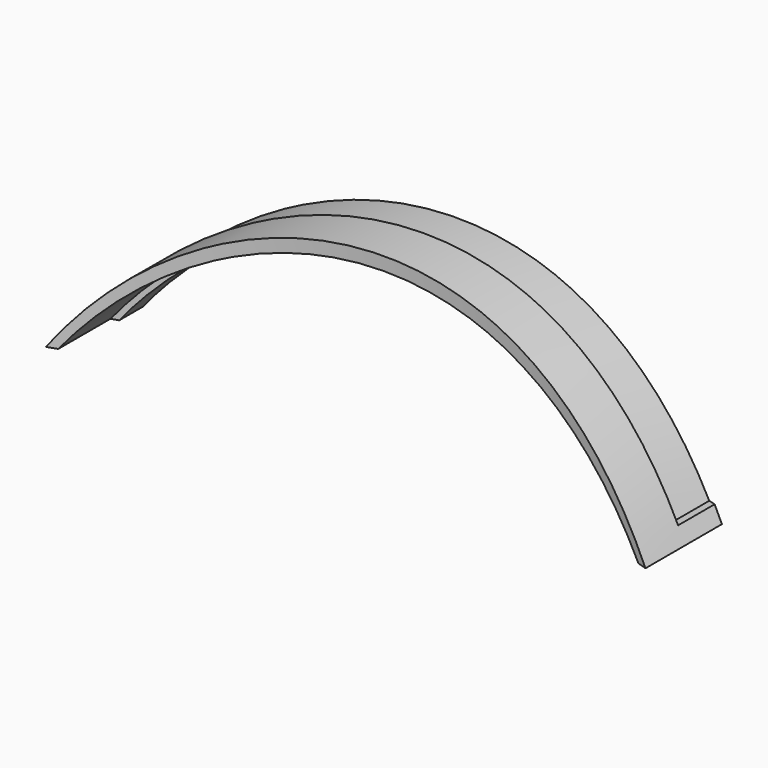
from build123d import *

# Parameters (mm, degrees)
PAD002_DEPTH    = 47.5
POCKET004_DEPTH = 67
POCKET005_DEPTH = 50
PAD001_DEPTH    = 47.5
POCKET002_DEPTH = 67
POCKET003_DEPTH = 50
PAD_DEPTH       = 47.5
POCKET_DEPTH    = 67
POCKET001_DEPTH = 50


with BuildPart() as body002:
    # Sketch006 → Pad002 (new body)
    with BuildSketch(Plane.XY):
        with BuildLine():
            ThreePointArc((90.501517, 0), (-0.00051, 14.750711), (-90.502537, 0))
            Line((-90.502537, 0), (-99.243083, 26.073989))
            ThreePointArc((99.233841, 26.076743), (-0.004846, 42.250711), (-99.243083, 26.073989))
            Line((90.501517, 0), (99.233841, 26.076743))
        make_face()
    extrude(amount=PAD002_DEPTH)

    # Sketch007 → Pocket004 (cut)
    with BuildSketch(Plane.XZ):
        with BuildLine():
            Line((0, 0), (-85.5, 0))
            ThreePointArc((85.5, 0), (0, 42.501931), (-85.5, 0))
            Line((0, 0), (85.5, 0))
        make_face()
    extrude(amount=-POCKET004_DEPTH, mode=Mode.SUBTRACT)

    # Sketch008 → Pocket005 (cut)
    with BuildSketch(Plane.XZ):
        with BuildLine():
            ThreePointArc((90.5, 0), (0, 47.5), (-90.5, 0))
            Line((-90.5, 0), (-105.5, 0))
            Line((-105.5, 0), (-105.5, 50))
            Line((-105.5, 50), (104.5, 50))
            Line((104.5, 50), (104.5, 0))
            Line((90.5, 0), (104.5, 0))
        make_face()
    extrude(amount=-POCKET005_DEPTH, mode=Mode.SUBTRACT)


with BuildPart() as body002_1:
    # Body002 placement: moved
    add(body002.part.moved(Location((0, 15, 4))))


with BuildPart() as body001:
    # Sketch003 → Pad001 (new body)
    with BuildSketch(Plane.XY):
        with BuildLine():
            ThreePointArc((90.501517, 0), (-0.00051, 14.750711), (-90.502537, 0))
            Line((-90.502537, 0), (-99.243083, 26.073989))
            ThreePointArc((99.233841, 26.076743), (-0.004846, 42.250711), (-99.243083, 26.073989))
            Line((90.501517, 0), (99.233841, 26.076743))
        make_face()
    extrude(amount=PAD001_DEPTH)

    # Sketch004 → Pocket002 (cut)
    with BuildSketch(Plane.XZ):
        with BuildLine():
            Line((0, 0), (-85.5, 0))
            ThreePointArc((85.5, 0), (0, 42.501931), (-85.5, 0))
            Line((0, 0), (85.5, 0))
        make_face()
    extrude(amount=-POCKET002_DEPTH, mode=Mode.SUBTRACT)

    # Sketch005 → Pocket003 (cut)
    with BuildSketch(Plane.XZ):
        with BuildLine():
            ThreePointArc((90.5, 0), (0, 47.5), (-90.5, 0))
            Line((-90.5, 0), (-105.5, 0))
            Line((-105.5, 0), (-105.5, 50))
            Line((-105.5, 50), (104.5, 50))
            Line((104.5, 50), (104.5, 0))
            Line((90.5, 0), (104.5, 0))
        make_face()
    extrude(amount=-POCKET003_DEPTH, mode=Mode.SUBTRACT)


with BuildPart() as body001_1:
    # Body001 placement: moved
    add(body001.part.moved(Location((0, -9, -4))))


with BuildPart() as cut001:
    # Sketch → Pad (new body)
    with BuildSketch(Plane.XY):
        with BuildLine():
            ThreePointArc((90.501517, 0), (-0.00051, 14.750711), (-90.502537, 0))
            Line((-90.502537, 0), (-99.243083, 26.073989))
            ThreePointArc((99.233841, 26.076743), (-0.004846, 42.250711), (-99.243083, 26.073989))
            Line((90.501517, 0), (99.233841, 26.076743))
        make_face()
    extrude(amount=PAD_DEPTH)

    # Sketch001 → Pocket (cut)
    with BuildSketch(Plane.XZ):
        with BuildLine():
            Line((0, 0), (-85.5, 0))
            ThreePointArc((85.5, 0), (0, 42.501931), (-85.5, 0))
            Line((0, 0), (85.5, 0))
        make_face()
    extrude(amount=-POCKET_DEPTH, mode=Mode.SUBTRACT)

    # Sketch002 → Pocket001 (cut)
    with BuildSketch(Plane.XZ):
        with BuildLine():
            ThreePointArc((90.5, 0), (0, 47.5), (-90.5, 0))
            Line((-90.5, 0), (-105.5, 0))
            Line((-105.5, 0), (-105.5, 50))
            Line((-105.5, 50), (104.5, 50))
            Line((104.5, 50), (104.5, 0))
            Line((90.5, 0), (104.5, 0))
        make_face()
    extrude(amount=-POCKET001_DEPTH, mode=Mode.SUBTRACT)

    # Cut: cut Body001
    add(body001_1.part, mode=Mode.SUBTRACT)

    # Cut001: cut Body002
    add(body002_1.part, mode=Mode.SUBTRACT)


solid = cut001.part
